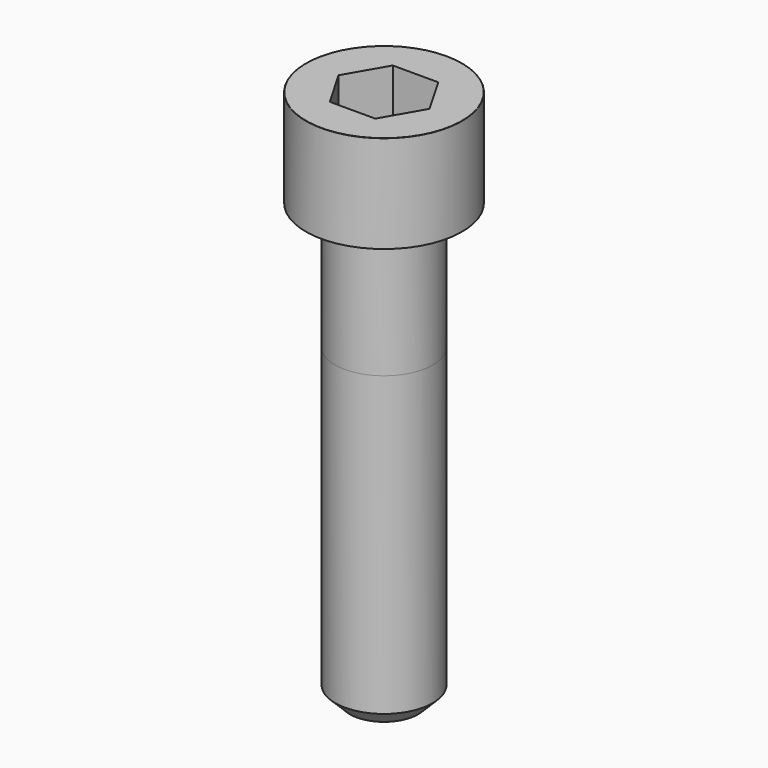
from build123d import *

# Parameters (mm, degrees)
POCKET_DEPTH = 8.07


with BuildPart() as part:
    # Sketch → Revolve (revolve)
    with BuildSketch(Plane.YZ):
        with BuildLine():
            Line((4.999, 0), (8, 0))
            Line((8, 0), (8, 9.97229))
            ThreePointArc((8, 9.97229), (7.991884, 9.991884), (7.97229, 10))
            Line((7.97229, 10), (0, 10))
            Line((0, -45), (0, 10))
            Line((3.5, -45), (0, -45))
            Line((5, -43.5), (3.5, -45))
            Line((5, -13), (5, -43.5))
            Line((4.999, 0), (5, -13))
        make_face()
    revolve(axis=Axis((0, 0, 0), (0, 0, 1)))

    # Sketch001 → Pocket (cut)
    with BuildSketch(Plane.XY.offset(10)):
        Polygon((4.659217, 0), (2.329608, 4.035), (-2.329608, 4.035), (-4.659217, 0), (-2.329608, -4.035), (2.329608, -4.035), align=None)
    extrude(amount=-POCKET_DEPTH, mode=Mode.SUBTRACT)


solid = part.part
